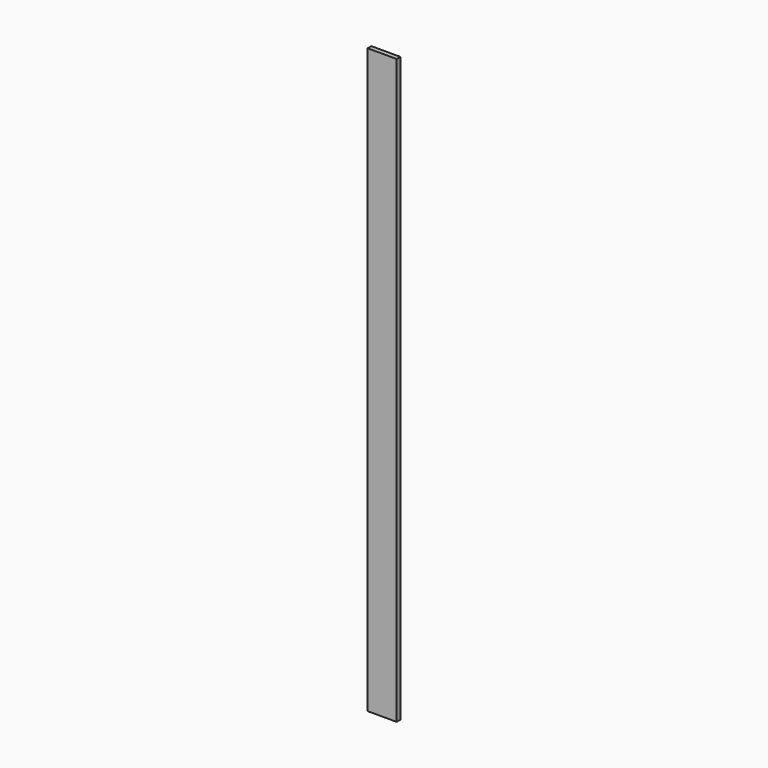
from build123d import *

# Parameters (mm, degrees)
F0_W     = 61.3434761763
F0_H     = 59.5392733812
F1_DEPTH = 16
F2_DEPTH = 16
F3_DEPTH = 2000
F4_DEPTH = 100


with BuildPart() as f1:
    # F0 (on Top) → F1 (new body)
    with BuildSketch(Plane.XY):
        with Locations((30.6717380881, -29.7696366906)):
            Rectangle(F0_W, F0_H)
    extrude(amount=F1_DEPTH)

    # F2 (intersect): a face of the model
    f2_faces = [f1.faces().sort_by_distance(p)[0] for p in [
        (30.6717380881, 0, 8),
    ]]
    extrude(f2_faces, amount=-F2_DEPTH, mode=Mode.INTERSECT)

    # F3 (add): a face of the model
    f3_faces = [f1.faces().sort_by_distance(p)[0] for p in [
        (30.6717380881, -8, 0),
    ]]
    extrude(f3_faces, amount=-F3_DEPTH)

    # F4 (add): a face of the model
    f4_faces = [f1.faces().sort_by_distance(p)[0] for p in [
        (0, -8, 1000),
    ]]
    extrude(f4_faces, amount=-F4_DEPTH)


solid = f1.part
